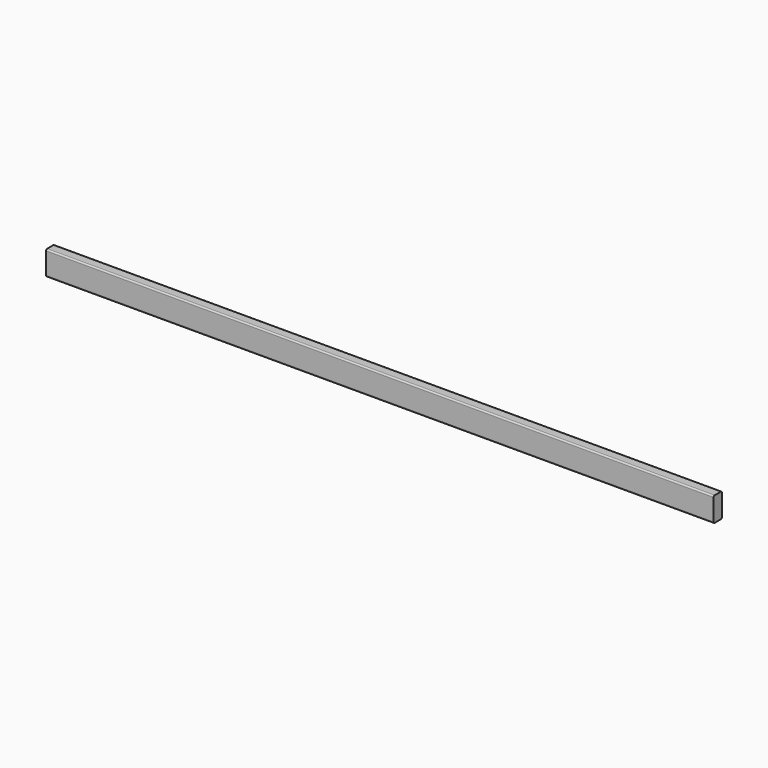
from build123d import *

# Parameters (mm, degrees)
F0_W     = 38.1
F0_H     = 88.9
F1_DEPTH = 1219.2
F2_R     = 5.08


with BuildPart() as f1:
    # F0 (on Right) → F1 (new body, symmetric)
    with BuildSketch(Plane.YZ):
        Rectangle(F0_W, F0_H)
    extrude(amount=F1_DEPTH, both=True)

    # F2
    f2_edges = [f1.edges().sort_by_distance(p)[0] for p in [
        (0, -19.05, 44.45),
        (0, 19.05, 44.45),
        (0, -19.05, -44.45),
        (0, 19.05, -44.45),
    ]]
    fillet(f2_edges, radius=F2_R)


solid = f1.part
